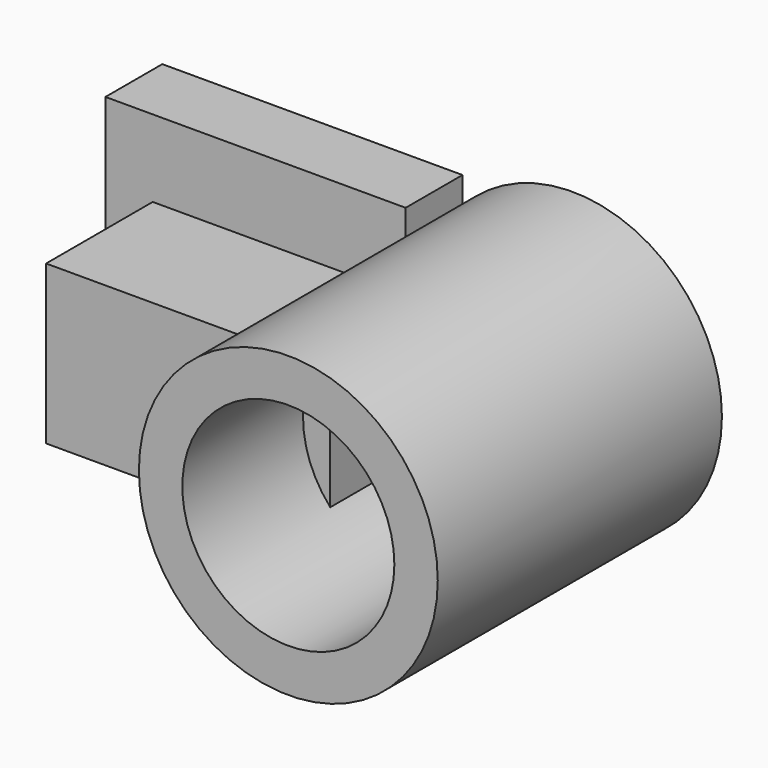
from build123d import *

# Parameters (mm, degrees)
F1_R     = 26.716265
F1_R_2   = 18.954544
F2_DEPTH = 63.5
F0_W     = 53.663762
F0_H     = 50.992716
F3_DEPTH = 12.7
F4_W     = 32.913139
F4_H     = 28.322212
F5_DEPTH = 50.8


with BuildPart() as f2:
    # F1 (on Front) → F2 (new body)
    with BuildSketch(Plane.XZ):
        with Locations((14.083703, 0)):
            Circle(F1_R)
        with Locations((14.083703, 0)):
            Circle(F1_R_2, mode=Mode.SUBTRACT)
    extrude(amount=F2_DEPTH)

    # F0 (on Front) → F3 (join)
    with BuildSketch(Plane.XZ):
        with Locations((-32.416797, -2.549635)):
            Rectangle(F0_W, F0_H)
    extrude(amount=F3_DEPTH)

    # F4 (on Right) → F5 (join)
    with BuildSketch(Plane.YZ):
        with Locations((-20.076167, -4.994778)):
            Rectangle(F4_W, F4_H)
    extrude(amount=-F5_DEPTH)


solid = f2.part
